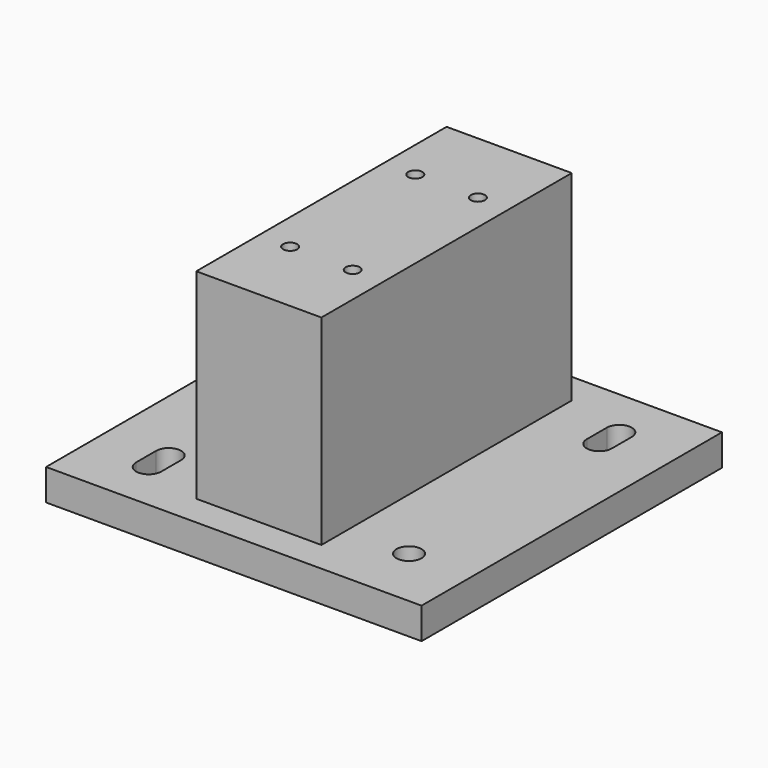
from build123d import *

# Parameters (mm, degrees)
F0_W     = 40
F0_H     = 100
F1_DEPTH = 64
F2_D     = 4.5
F2_DEPTH = 14.1
F2_TIP   = 1.3519363928
F3_START = -64
F0_W_2   = 120
F0_H_2   = 120
F3_DEPTH = 10
F4_R     = 4
F5_DEPTH = 25


with BuildPart() as f1:
    # F0 (on Top) → F1 (new body)
    with BuildSketch(Plane.XY):
        Rectangle(F0_W, F0_H)
    extrude(amount=-F1_DEPTH)

    # F2
    with Locations(Plane.XY):
        with Locations((-10, 25), (10, 25), (-10, -25), (10, -25)):
            Hole(F2_D / 2, depth=F2_DEPTH)
            with Locations((0, 0, -(F2_DEPTH + F2_TIP / 2))):  # 118° drill point
                Cone(0, F2_D / 2, F2_TIP, mode=Mode.SUBTRACT)


with BuildPart() as f3:
    # F0 (on Top) → F3 (new body)
    with BuildSketch(Plane.XY.offset(F3_START)):
        Rectangle(F0_W_2, F0_H_2)
        Rectangle(F0_W, F0_H, mode=Mode.SUBTRACT)
        Rectangle(F0_W, F0_H)
    extrude(amount=-F3_DEPTH)

    # F4 (on face) → F5 (cut)
    with BuildSketch(Plane(origin=(0, 0, -74), x_dir=(1, 0, 0), z_dir=(0, 0, -1))):
        with BuildLine():
            ThreePointArc((-40, 40), (-37.1715728753, 41.1715728753), (-36, 44))
            ThreePointArc((-36, 44), (-40, 48), (-44, 44))
            ThreePointArc((-44, 44), (-42.8284271247, 41.1715728753), (-40, 40))
        make_face()
        with BuildLine():
            ThreePointArc((-36, 36), (-37.1715728753, 38.8284271247), (-40, 40))
            ThreePointArc((-40, 40), (-42.8284271247, 38.8284271247), (-44, 36))
            ThreePointArc((-44, 36), (-40, 32), (-36, 36))
        make_face()
        with BuildLine():
            Line((-36, 36), (-36, 44))
            ThreePointArc((-36, 44), (-37.1715728753, 41.1715728753), (-40, 40))
            ThreePointArc((-40, 40), (-37.1715728753, 38.8284271247), (-36, 36))
        make_face()
        with BuildLine():
            ThreePointArc((-40, 40), (-42.8284271247, 41.1715728753), (-44, 44))
            Line((-44, 44), (-44, 36))
            ThreePointArc((-44, 36), (-42.8284271247, 38.8284271247), (-40, 40))
        make_face()
        with Locations((40, 40)):
            Circle(F4_R)
        with BuildLine():
            ThreePointArc((-40, -40), (-37.1715728753, -38.8284271247), (-36, -36))
            ThreePointArc((-36, -36), (-40, -32), (-44, -36))
            ThreePointArc((-44, -36), (-42.8284271247, -38.8284271247), (-40, -40))
        make_face()
        with BuildLine():
            ThreePointArc((-36, -44), (-37.1715728753, -41.1715728753), (-40, -40))
            ThreePointArc((-40, -40), (-42.8284271247, -41.1715728753), (-44, -44))
            ThreePointArc((-44, -44), (-40, -48), (-36, -44))
        make_face()
        with BuildLine():
            ThreePointArc((-40, -40), (-42.8284271247, -38.8284271247), (-44, -36))
            Line((-44, -36), (-44, -44))
            ThreePointArc((-44, -44), (-42.8284271247, -41.1715728753), (-40, -40))
        make_face()
        with BuildLine():
            Line((-36, -44), (-36, -36))
            ThreePointArc((-36, -36), (-37.1715728753, -38.8284271247), (-40, -40))
            ThreePointArc((-40, -40), (-37.1715728753, -41.1715728753), (-36, -44))
        make_face()
        with BuildLine():
            ThreePointArc((44, -44), (42.8284271247, -41.1715728753), (40, -40))
            ThreePointArc((40, -40), (37.1715728753, -41.1715728753), (36, -44))
            ThreePointArc((36, -44), (40, -48), (44, -44))
        make_face()
        with BuildLine():
            ThreePointArc((40, -40), (42.8284271247, -38.8284271247), (44, -36))
            ThreePointArc((44, -36), (40, -32), (36, -36))
            ThreePointArc((36, -36), (37.1715728753, -38.8284271247), (40, -40))
        make_face()
        with BuildLine():
            ThreePointArc((40, -40), (37.1715728753, -38.8284271247), (36, -36))
            Line((36, -36), (36, -44))
            ThreePointArc((36, -44), (37.1715728753, -41.1715728753), (40, -40))
        make_face()
        with BuildLine():
            Line((44, -44), (44, -36))
            ThreePointArc((44, -36), (42.8284271247, -38.8284271247), (40, -40))
            ThreePointArc((40, -40), (42.8284271247, -41.1715728753), (44, -44))
        make_face()
    extrude(amount=-F5_DEPTH, mode=Mode.SUBTRACT)


solid = Compound([f1.part, f3.part])
